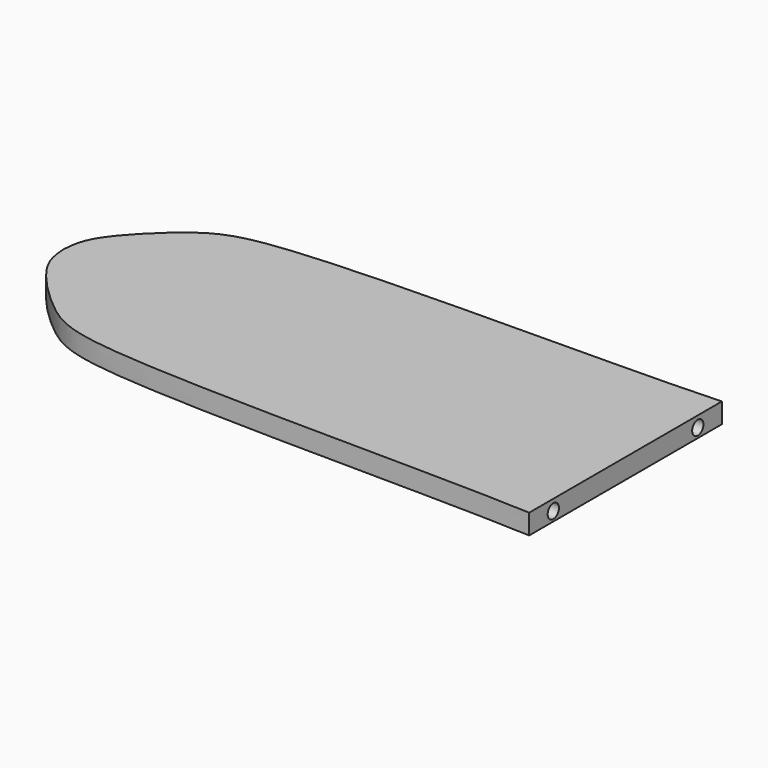
from build123d import *

# Parameters (mm, degrees)
F1_DEPTH = 10
F2_R     = 3.5
F3_DEPTH = 111


with BuildPart() as f1:
    # F0 (on Top) → F1 (new body)
    with BuildSketch(Plane.XY):
        with BuildLine():
            Line((-280, 0), (0, 0))
            Line((0, 0), (0, 60))
            add(Edge.make_bspline(
                [(-280, 0), (-279.7054046758, 4.9183746395), (-278.2895479431, 16.0211705122), (-250.7509652142, 43.4789273687), (-219.664067806, 60.7264353566), (-51.2216351313, 57.2940537051), (0, 60)],
                knots=[0, 0, 0, 0, 0.1271307416, 0.3171834693, 0.5203132406, 1, 1, 1, 1], degree=3))
        make_face()
        with BuildLine():
            Line((0, -60), (0, 0))
            Line((0, 0), (-280, 0))
            add(Edge.make_bspline(
                [(-280, 0), (-279.7054046758, -4.9183746395), (-278.2895479431, -16.0211705122), (-250.7509652142, -43.4789273687), (-219.664067806, -60.7264353566), (-51.2216351313, -57.2940537051), (0, -60)],
                knots=[0, 0, 0, 0, 0.1271307416, 0.3171834693, 0.5203132406, 1, 1, 1, 1], degree=3))
        make_face()
    extrude(amount=F1_DEPTH)

    # F2 (on Right) → F3 (cut)
    with BuildSketch(Plane.YZ):
        with Locations((-44.9756346643, 4.6055959538)):
            Circle(F2_R)
        with Locations((44.9756346643, 4.6055959538)):
            Circle(F2_R)
    extrude(amount=-F3_DEPTH, mode=Mode.SUBTRACT)


solid = f1.part
